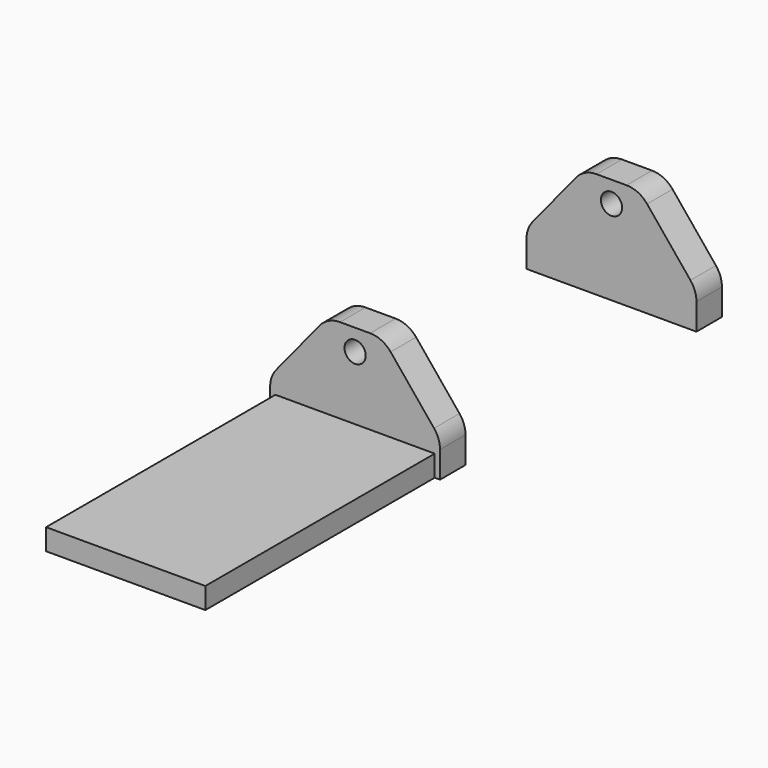
from build123d import *

# Parameters (mm, degrees)
F0_R     = 2.54
F1_DEPTH = 7.62
F3_W     = 38.1
F3_H     = 5.08
F4_DEPTH = 76.2


with BuildPart() as f1:
    # F0 (on Front) → F1 (new body)
    with BuildSketch(Plane.XZ):
        with BuildLine():
            Line((-20.32, 6.35), (-20.32, 0))
            Line((-20.32, 0), (20.32, 0))
            Line((20.32, 0), (20.32, 6.35))
            ThreePointArc((20.32, 6.35), (19.951056, 8.482948), (18.887097, 10.368042))
            Line((18.887097, 10.368042), (8.509199, 23.068042))
            ThreePointArc((8.509199, 23.068042), (6.313126, 24.787467), (3.592102, 25.4))
            Line((3.592102, 25.4), (-3.592102, 25.4))
            ThreePointArc((-3.592102, 25.4), (-6.313126, 24.787467), (-8.509199, 23.068042))
            Line((-8.509199, 23.068042), (-18.887097, 10.368042))
            ThreePointArc((-18.887097, 10.368042), (-19.951056, 8.482948), (-20.32, 6.35))
        make_face()
        with Locations((0, 20.32)):
            Circle(F0_R, mode=Mode.SUBTRACT)
    extrude(amount=F1_DEPTH)


with BuildPart() as f2_1:
    # F2: copy of F1
    add(f1.part.moved(Location((0, 76.66997, 0))))


with BuildPart() as f4:
    # F3 (on Front) → F4 (new body)
    with BuildSketch(Plane.XZ):
        with Locations((0, 2.54)):
            Rectangle(F3_W, F3_H)
    extrude(amount=F4_DEPTH)


solid = Compound([f1.part, f2_1.part, f4.part])
